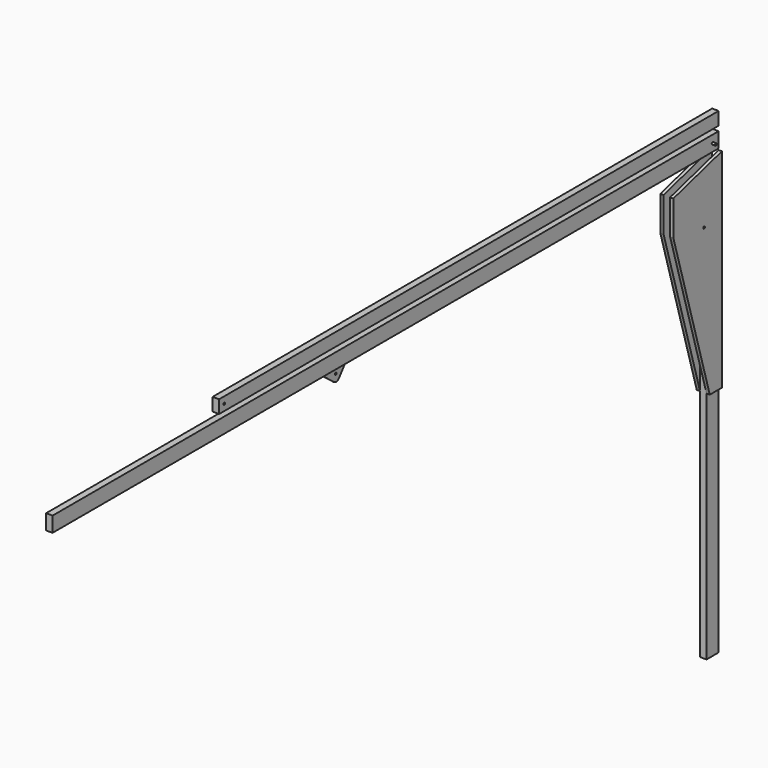
from build123d import *

# Parameters (mm, degrees)
F1_DEPTH  = 76.2
F2_W      = 38.1
F2_H      = 152.4
F4_W      = 38.1
F4_H      = 266.7
F5_DEPTH  = 1219.201
F6_W      = 38.1
F6_H      = 88.9
F7_DEPTH  = 1371.6
F8_R      = 6.35
F9_DEPTH  = 76.201
F10_W     = 38.1
F10_H     = 88.9
F11_DEPTH = 4876.8
F12_R     = 6.35
F13_DEPTH = 19.05
F14_R     = 6.35
F15_DEPTH = 19.05
F16_R     = 6.35
F17_DEPTH = 6.35
F18_R     = 25.4
F19_W     = 38.1
F19_H     = 76.2
F20_DEPTH = 3657.6
F21_R     = 6.35
F22_DEPTH = 57.151


with BuildPart() as f1:
    # F0 (on Right) → F1 (new body)
    with BuildSketch(Plane.YZ):
        Polygon((0, 99.3522093521), (-355.6, 0), (-355.6, -203.2), (-88.9, -1119.8477906479), (0, -1119.8477906479), align=None)
    extrude(amount=F1_DEPTH)

    # F3: sweep along a path in F3_path
    with BuildLine(Plane(origin=(76.2, 0, 99.3522093521), x_dir=(0, 0.9631156168, 0.2690879201), z_dir=(0, -0.2690879201, 0.9631156168))) as f3_path:
        Line((0, 0), (-369.2183926935, 0))
    # F2 (on face) → F3 (sweep, cut)
    with BuildSketch(Plane(origin=(0, 0, 0), x_dir=(-1, 0, 0), z_dir=(0, 1, 0))):
        with Locations((-38.1, 23.1522093521)):
            Rectangle(F2_W, F2_H)
    sweep(path=f3_path.line, mode=Mode.SUBTRACT)

    # F4 (on face) → F5 (cut, through all)
    with BuildSketch(Plane(origin=(0, 0, -1119.8477906479), x_dir=(1, 0, 0), z_dir=(0, 0, -1))):
        with Locations((38.1, 222.25)):
            Rectangle(F4_W, F4_H)
    extrude(amount=-F5_DEPTH, mode=Mode.SUBTRACT)

    # F6 (on face) → F7 (join)
    with BuildSketch(Plane(origin=(0, 0, -1119.8477906479), x_dir=(1, 0, 0), z_dir=(0, 0, -1))):
        with Locations((38.1, 44.45)):
            Rectangle(F6_W, F6_H)
    extrude(amount=F7_DEPTH)

    # F8 (on face) → F9 (cut, through all)
    with BuildSketch(Plane(origin=(0, 0, 0), x_dir=(0, -1, 0), z_dir=(-1, 0, 0))):
        with Locations((130.0815367264, -241.3)):
            Circle(F8_R)
    extrude(amount=-F9_DEPTH, mode=Mode.SUBTRACT)


with BuildPart() as f11:
    # F10 (on Front) → F11 (new body)
    with BuildSketch(Plane.XZ):
        with Locations((38.1, 152.3119284987)):
            Rectangle(F10_W, F10_H)
    extrude(amount=F11_DEPTH)

    # F12 (on face) → F13 (join)
    with BuildSketch(Plane(origin=(19.05, 0, 0), x_dir=(0, -1, 0), z_dir=(-1, 0, 0))):
        with Locations((44.45, 152.3119284987)):
            Circle(F12_R)
    extrude(amount=F13_DEPTH)

    # F14 (on face) → F15 (join)
    with BuildSketch(Plane.YZ.offset(57.15)):
        with Locations((-44.45, 152.3119284987)):
            Circle(F14_R)
    extrude(amount=F15_DEPTH)

    # F16 (on face) → F17 (join)
    with BuildSketch(Plane(origin=(19.05, 0, 0), x_dir=(0, -1, 0), z_dir=(-1, 0, 0))):
        Polygon((2664.9721741909, 196.7619284987), (2664.9721741909, 107.8619284987), (2748.5108044967, 0.5131851916), (2886.456, 107.8619284987), (2886.456, 196.7619284987), align=None)
        with Locations((2755.1799738946, 53.9803917723)):
            Circle(F16_R, mode=Mode.SUBTRACT)
    extrude(amount=F17_DEPTH)

    # F18
    f18_edges = [f11.edges().sort_by_distance(p)[0] for p in [
        (15.875, -2748.510804, 0.513185),
    ]]
    fillet(f18_edges, radius=F18_R)


with BuildPart() as f20:
    # F19 (on Front) → F20 (new body)
    with BuildSketch(Plane.XZ):
        with Locations((38.1, 263.0223479325)):
            Rectangle(F19_W, F19_H)
    extrude(amount=F20_DEPTH)

    # F21 (on face) → F22 (cut, through all)
    with BuildSketch(Plane(origin=(19.05, 0, 0), x_dir=(0, -1, 0), z_dir=(-1, 0, 0))):
        with Locations((3619.5, 263.0223479325)):
            Circle(F21_R)
    extrude(amount=-F22_DEPTH, mode=Mode.SUBTRACT)


solid = Compound([f1.part, f11.part, f20.part])
